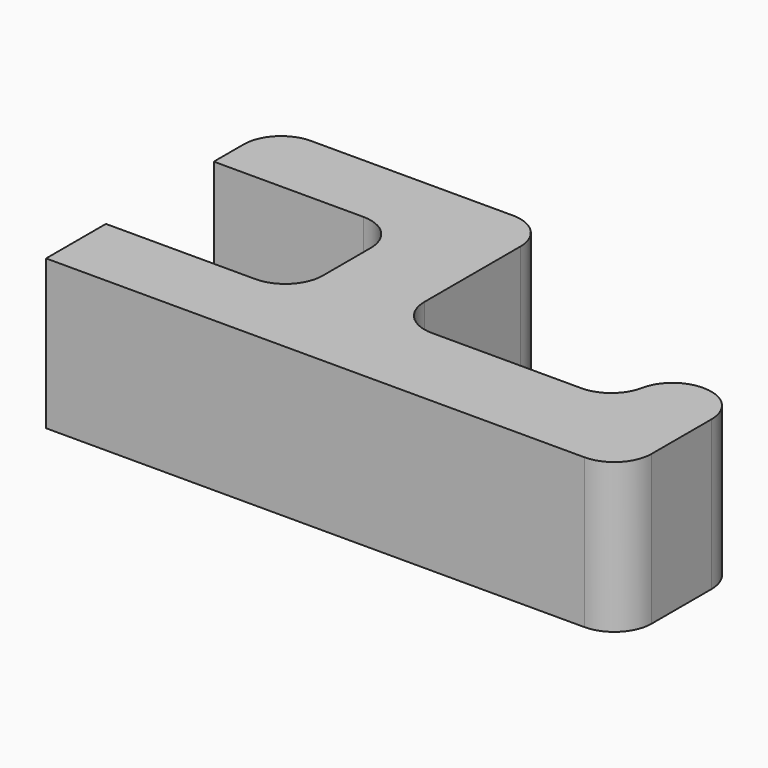
from build123d import *

# Parameters (mm, degrees)
F1_DEPTH = 20
F2_R     = 5
F3_R     = 5
F4_ANGLE = 90


with BuildPart() as f1:
    # F0 (on Front) → F1 (new body)
    with BuildSketch(Plane.XZ):
        with BuildLine():
            Line((32, 38.04), (5, 38.04))
            ThreePointArc((5, 38.04), (1.4644660941, 36.5755339059), (0, 33.04))
            Line((0, 33.04), (0, 28.04))
            Line((0, 28.04), (20, 28.04))
            ThreePointArc((20, 28.04), (23.5355339059, 26.5755339059), (25, 23.04))
            Line((25, 23.04), (25, 15))
            ThreePointArc((25, 15), (23.5355339059, 11.4644660941), (20, 10))
            Line((20, 10), (0, 10))
            Line((0, 10), (0, 0))
            Line((0, 0), (72, 0))
            ThreePointArc((72, 0), (75.5355339059, 1.4644660941), (77, 5))
            Line((77, 5), (77, 20))
            Line((77, 20), (67, 20))
            Line((67, 20), (67, 17))
            ThreePointArc((67, 17), (65.5355339059, 13.4644660941), (62, 12))
            Line((62, 12), (42, 12))
            ThreePointArc((42, 12), (38.4644660941, 13.4644660941), (37, 17))
            Line((37, 17), (37, 33.04))
            ThreePointArc((37, 33.04), (35.5355339059, 36.5755339059), (32, 38.04))
        make_face()
    extrude(amount=F1_DEPTH)

    # F2
    f2_edges = [f1.edges().sort_by_distance(p)[0] for p in [
        (67, -10, 20),
    ]]
    fillet(f2_edges, radius=F2_R)

    # F3
    f3_edges = [f1.edges().sort_by_distance(p)[0] for p in [
        (77, -10, 20),
    ]]
    fillet(f3_edges, radius=F3_R)


with BuildPart() as f1_1:
    # F4: moved
    add(f1.part.rotate(Axis((36, 0, 0), (-1, 0, 0)), F4_ANGLE))


solid = f1_1.part
